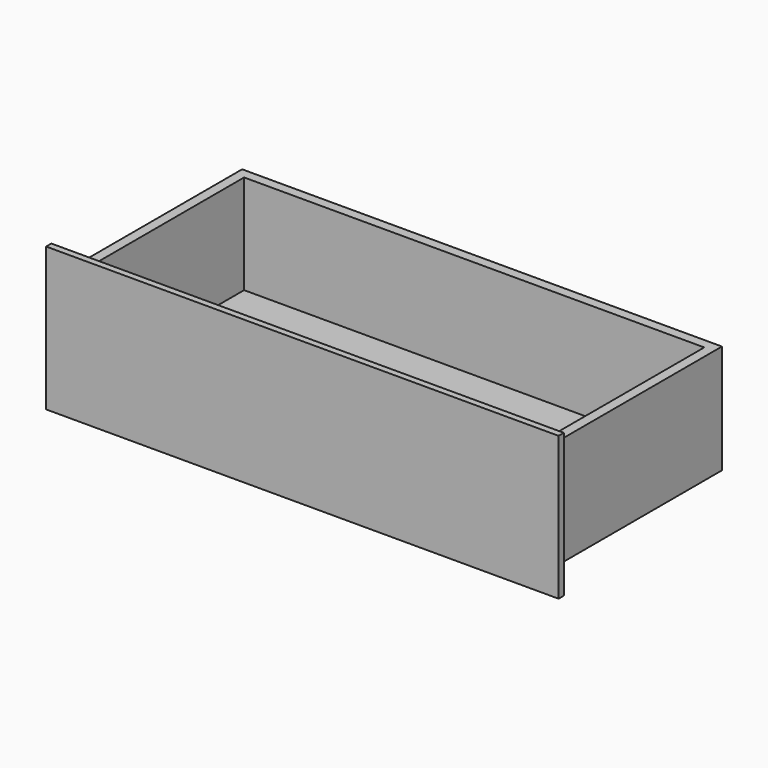
from build123d import *

# Parameters (mm, degrees)
F0_W     = 18
F0_H     = 182
F1_DEPTH = 400
F0_W_2   = 940
F0_H_2   = 263
F2_DEPTH = 12
F3_DEPTH = 18
F4_W     = 844
F4_H     = 182
F5_DEPTH = 18


with BuildPart() as f1:
    # F0 (on Front) → F1 (new body)
    with BuildSketch(Plane.XZ):
        with Locations((-431, 7.5)):
            Rectangle(F0_W, F0_H)
        Polygon((-440, -101.5), (440, -101.5), (440, 98.5), (422, 98.5), (422, -83.5), (404, -83.5), (-422, -83.5), (-440, -83.5), align=None)
        Polygon((-440, -101.5), (440, -101.5), (440, 98.5), (422, 98.5), (422, -83.5), (404, -83.5), (-422, -83.5), (-440, -83.5), align=None)
    extrude(amount=-F1_DEPTH)

    # F4 (on face) → F5 (join)
    with BuildSketch(Plane(origin=(0, 400, 0), x_dir=(-1, 0, 0), z_dir=(0, 1, 0))):
        with Locations((0, 7.5)):
            Rectangle(F4_W, F4_H)
    extrude(amount=-F5_DEPTH)


with BuildPart() as f2:
    # F0 (on Front) → F2 (new body)
    with BuildSketch(Plane.XZ):
        Rectangle(F0_W_2, F0_H_2)
        Polygon((440, 98.5), (440, -101.5), (-440, -101.5), (-440, -83.5), (-440, 98.5), (-422, 98.5), (422, 98.5), align=None, mode=Mode.SUBTRACT)
        Polygon((422, -83.5), (422, 98.5), (-422, 98.5), (-422, -83.5), (404, -83.5), align=None)
        Polygon((-440, -101.5), (440, -101.5), (440, 98.5), (422, 98.5), (422, -83.5), (404, -83.5), (-422, -83.5), (-440, -83.5), align=None)
        Polygon((-440, -101.5), (440, -101.5), (440, 98.5), (422, 98.5), (422, -83.5), (404, -83.5), (-422, -83.5), (-440, -83.5), align=None)
        with Locations((-431, 7.5)):
            Rectangle(F0_W, F0_H)
    extrude(amount=F2_DEPTH)


with BuildPart() as f3:
    # F0 (on Front) → F3 (new body)
    with BuildSketch(Plane.XZ):
        Polygon((422, -83.5), (422, 98.5), (-422, 98.5), (-422, -83.5), (404, -83.5), align=None)
    extrude(amount=-F3_DEPTH)


solid = Compound([f1.part, f2.part, f3.part])
